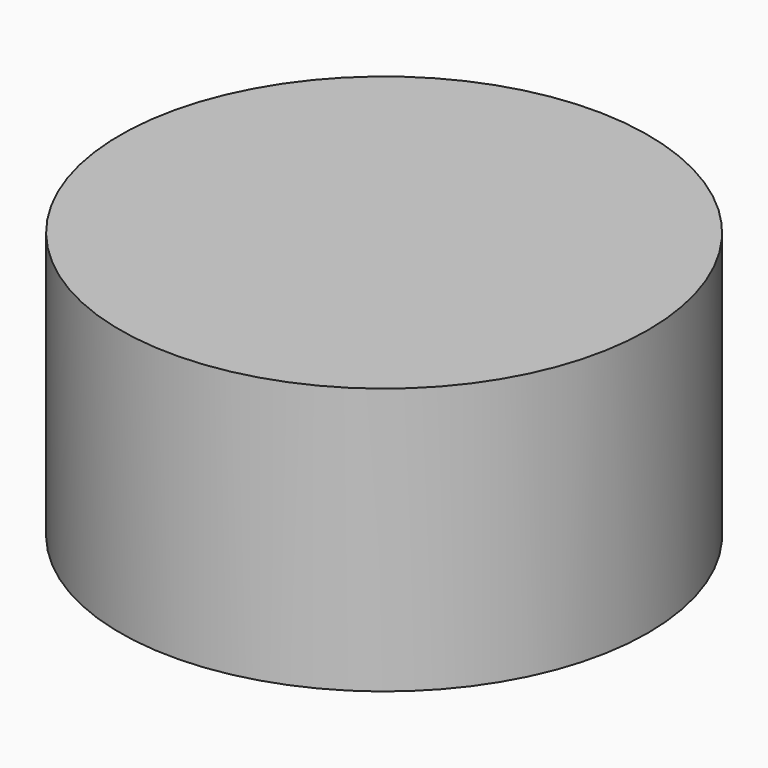
from build123d import *

# Parameters (mm, degrees)
F0_R     = 2.54
F1_DEPTH = 10.16
F3_R     = 2.54
F4_DEPTH = 7.62


with BuildPart() as f1:
    # F0 (on Top) → F1 (new body)
    with BuildSketch(Plane.XY):
        Circle(F0_R)
    extrude(amount=F1_DEPTH)

    # F3 (on offset) → F4 (cut)
    with BuildSketch(Plane.XY.offset(10.1854)):
        Circle(F3_R)
    extrude(amount=-F4_DEPTH, mode=Mode.SUBTRACT)


solid = f1.part
